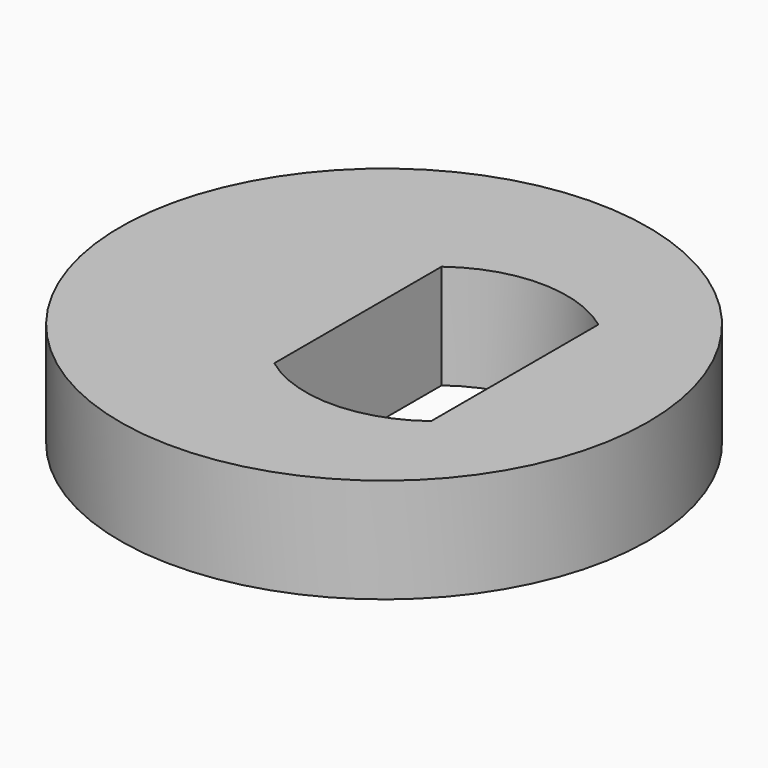
from build123d import *

# Parameters (mm, degrees)
SKETCH002_R       = 5.05
PAD001_DEPTH      = 2
POCKET_DEPTH      = 2
POCKET_DEPTH_BACK = -2


with BuildPart() as part:
    # Sketch002 → Pad001 (new body)
    with BuildSketch(Plane.XY):
        with Locations((-1, 0)):
            Circle(SKETCH002_R)
    extrude(amount=PAD001_DEPTH)

    # Sketch → Pocket (cut, two sides)
    with BuildSketch(Plane.XY) as pocket_sk:
        with BuildLine():
            ThreePointArc((1.5, 2), (0, 2.5), (-1.5, 2))
            Line((-1.5, -2), (-1.5, 2))
            ThreePointArc((-1.5, -2), (0, -2.5), (1.5, -2))
            Line((1.5, 2), (1.5, -2))
        make_face()
    extrude(amount=-POCKET_DEPTH, mode=Mode.SUBTRACT)
    extrude(pocket_sk.sketch, amount=-POCKET_DEPTH_BACK, mode=Mode.SUBTRACT)


solid = part.part
